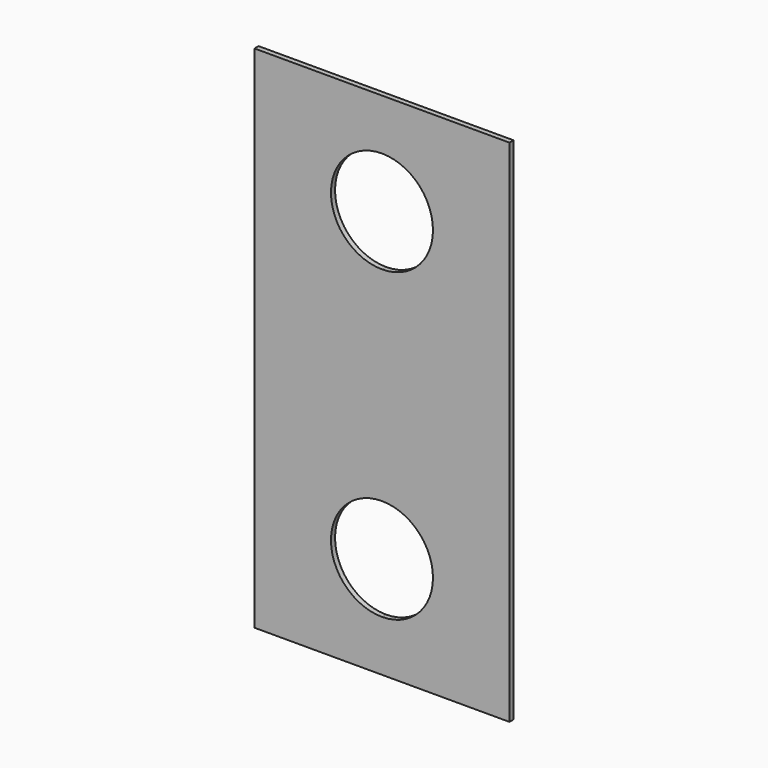
from build123d import *

# Parameters (mm, degrees)
F0_W     = 127
F0_H     = 254
F1_DEPTH = 2.54
F3_DEPTH = 25.4
F5_DEPTH = 25.4


with BuildPart() as f1:
    # F0 (on Front) → F1 (new body)
    with BuildSketch(Plane.XZ):
        with Locations((-91.982823, 130.963629)):
            Rectangle(F0_W, F0_H)
    extrude(amount=F1_DEPTH)

    # F2 (on face) → F3 (cut)
    with BuildSketch(Plane.XZ.offset(2.54)):
        with BuildLine():
            Line((-91.982823, 181.763629), (-91.982823, 232.563629))
            ThreePointArc((-91.982823, 232.563629), (-117.382823, 207.163629), (-91.982823, 181.763629))
        make_face()
        with BuildLine():
            ThreePointArc((-66.582823, 207.163629), (-74.02231, 225.124141), (-91.982823, 232.563629))
            Line((-91.982823, 232.563629), (-91.982823, 181.763629))
            ThreePointArc((-91.982823, 181.763629), (-74.02231, 189.203117), (-66.582823, 207.163629))
        make_face()
    extrude(amount=-F3_DEPTH, mode=Mode.SUBTRACT)

    # F4 (on face) → F5 (cut)
    with BuildSketch(Plane.XZ.offset(2.54)):
        with BuildLine():
            ThreePointArc((-91.982823, 80.163629), (-117.382823, 54.763629), (-91.982823, 29.363629))
            Line((-91.982823, 29.363629), (-91.982823, 80.163629))
        make_face()
        with BuildLine():
            Line((-91.982823, 80.163629), (-91.982823, 29.363629))
            ThreePointArc((-91.982823, 29.363629), (-74.02231, 36.803117), (-66.582823, 54.763629))
            ThreePointArc((-66.582823, 54.763629), (-74.02231, 72.724141), (-91.982823, 80.163629))
        make_face()
    extrude(amount=-F5_DEPTH, mode=Mode.SUBTRACT)


solid = f1.part
